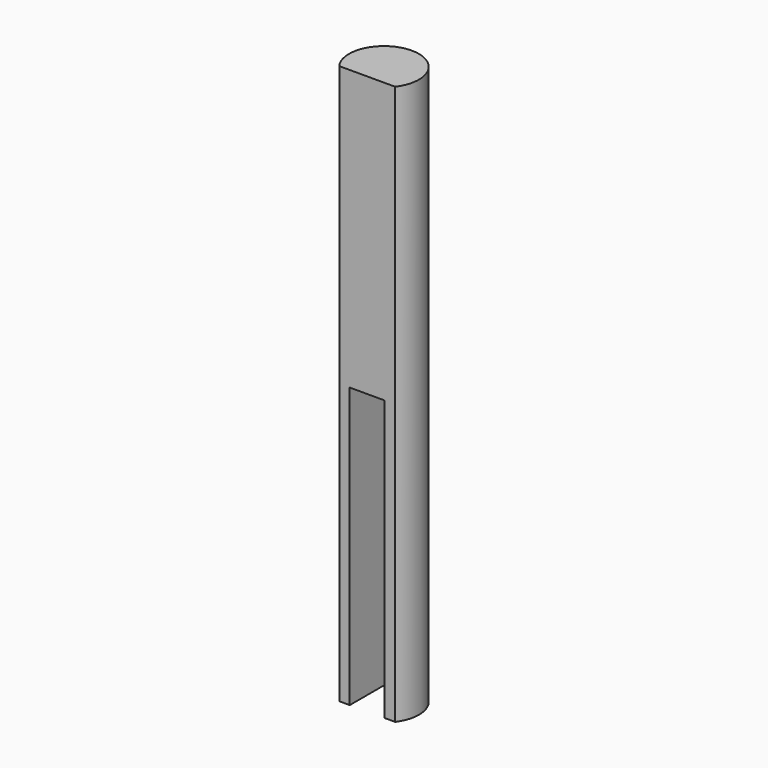
from build123d import *

# Parameters (mm, degrees)
F1_DEPTH = 50.8
F2_DEPTH = 50.8


with BuildPart() as f1:
    # F0 (on Top) → F1 (new body)
    with BuildSketch(Plane.XY):
        with BuildLine():
            Line((-3.175, -3.81), (-3.175, 5.499261314))
            ThreePointArc((-3.175, 5.499261314), (-6.2210805173, 1.2730503512), (-5.08, -3.81))
            Line((-5.08, -3.81), (-3.175, -3.81))
        make_face()
        with BuildLine():
            Line((3.175, -3.81), (3.175, 5.499261314))
            ThreePointArc((3.175, 5.499261314), (0, 6.35), (-3.175, 5.499261314))
            Line((-3.175, 5.499261314), (-3.175, -3.81))
            Line((-3.175, -3.81), (3.175, -3.81))
        make_face()
        with BuildLine():
            Line((3.175, -3.81), (5.08, -3.81))
            ThreePointArc((5.08, -3.81), (6.2210805173, 1.2730503512), (3.175, 5.499261314))
            Line((3.175, 5.499261314), (3.175, -3.81))
        make_face()
    extrude(amount=F1_DEPTH)

    # F0 (on Top) → F2 (join)
    with BuildSketch(Plane.XY):
        with BuildLine():
            Line((3.175, -3.81), (5.08, -3.81))
            ThreePointArc((5.08, -3.81), (6.2210805173, 1.2730503512), (3.175, 5.499261314))
            Line((3.175, 5.499261314), (3.175, -3.81))
        make_face()
        with BuildLine():
            Line((-3.175, -3.81), (-3.175, 5.499261314))
            ThreePointArc((-3.175, 5.499261314), (-6.2210805173, 1.2730503512), (-5.08, -3.81))
            Line((-5.08, -3.81), (-3.175, -3.81))
        make_face()
    extrude(amount=-F2_DEPTH)


solid = f1.part
